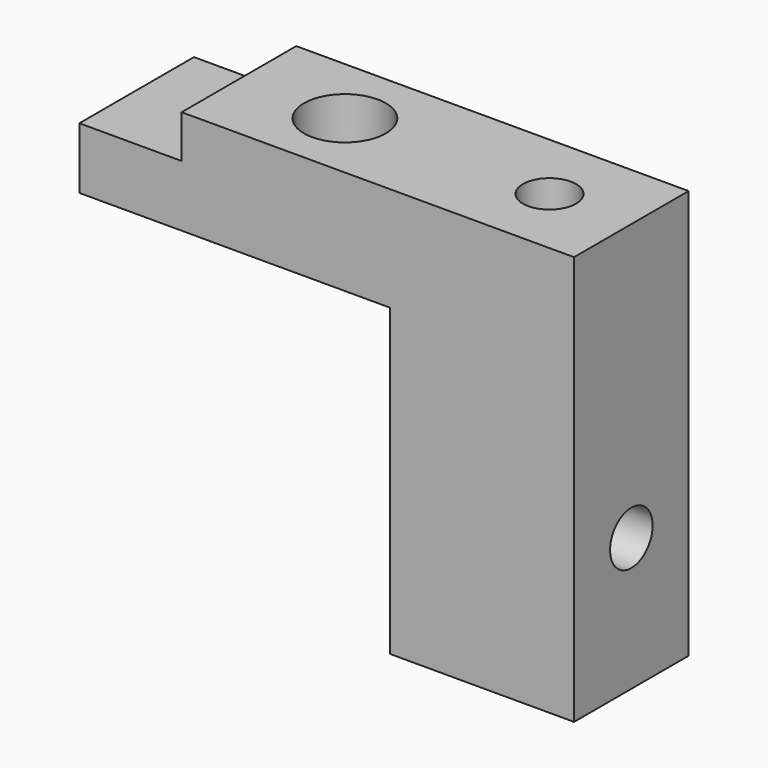
from build123d import *

# Parameters (mm, degrees)
PAD025_DEPTH             = 3.5
PAD025_DEPTH_BACK        = 3.5
SKETCH047_R              = 2
SKETCH047_R_2            = 1.3
POCKET_DEPTH             = 8
SKETCH049_R              = 1.3
POCKET001_DEPTH          = 8
CLONE009_PLACEMENT_ANGLE = 180


with BuildPart() as part:
    # Sketch → Pad025 (new body, two sides)
    with BuildSketch(Plane.XZ) as pad025_sk:
        Polygon((-58.82, -4.5), (-58.82, -6.6), (-53.82, -6.6), (-53.82, -9.6), (-69, -9.6), (-69, -24.5), (-78, -24.5), (-78, -4.5), align=None)
    extrude(amount=PAD025_DEPTH)
    extrude(pad025_sk.sketch, amount=-PAD025_DEPTH_BACK)

    # Sketch047 → Pocket (cut)
    with BuildSketch(Plane(origin=(0, 0, -9.6), x_dir=(1, 0, 0), z_dir=(0, 0, -1))):
        with Locations((-64, 0)):
            Circle(SKETCH047_R)
        with Locations((-74, 0)):
            Circle(SKETCH047_R_2)
    extrude(amount=-POCKET_DEPTH, mode=Mode.SUBTRACT)

    # Sketch049 → Pocket001 (cut)
    with BuildSketch(Plane(origin=(-78, 0, 0), x_dir=(0, 0, -1), z_dir=(-1, 0, 0))):
        with Locations((18, 0)):
            Circle(SKETCH049_R)
    extrude(amount=-POCKET001_DEPTH, mode=Mode.SUBTRACT)


with BuildPart() as part_1:
    # Clone009 placement: moved
    add(part.part.moved(Location((0, 53, 0))).rotate(Axis((0, 53, 0), (0, 0, 1)), CLONE009_PLACEMENT_ANGLE))


solid = part_1.part
